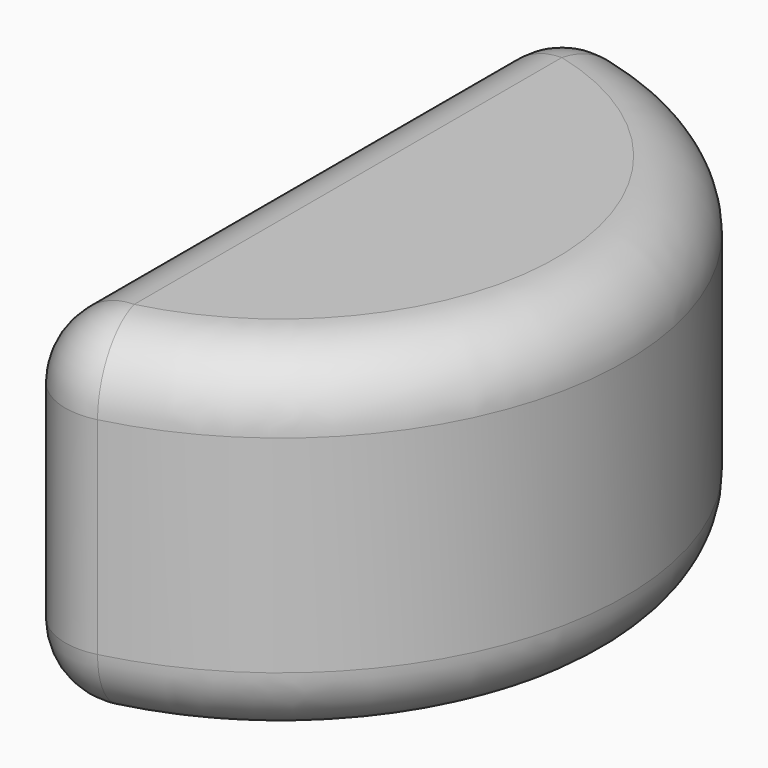
from build123d import *

# Parameters (mm, degrees)
F1_DEPTH = 25.4
F2_R     = 5.08


with BuildPart() as f1:
    # F0 (on Top) → F1 (new body)
    with BuildSketch(Plane.XY):
        with BuildLine():
            Line((0, 67.740524), (0, 16.940524))
            ThreePointArc((0, 16.940524), (25.520217, 42.340524), (0, 67.740524))
        make_face()
    extrude(amount=F1_DEPTH)

    # F2
    f2_edges = [f1.edges().sort_by_distance(p)[0] for p in [
        (0, 42.340524, 25.4),
        (25.520217, 42.340524, 25.4),
        (0, 42.340524, 0),
        (25.520217, 42.340524, 0),
        (0, 16.940524, 12.7),
        (0, 67.740524, 12.7),
    ]]
    fillet(f2_edges, radius=F2_R)


solid = f1.part
